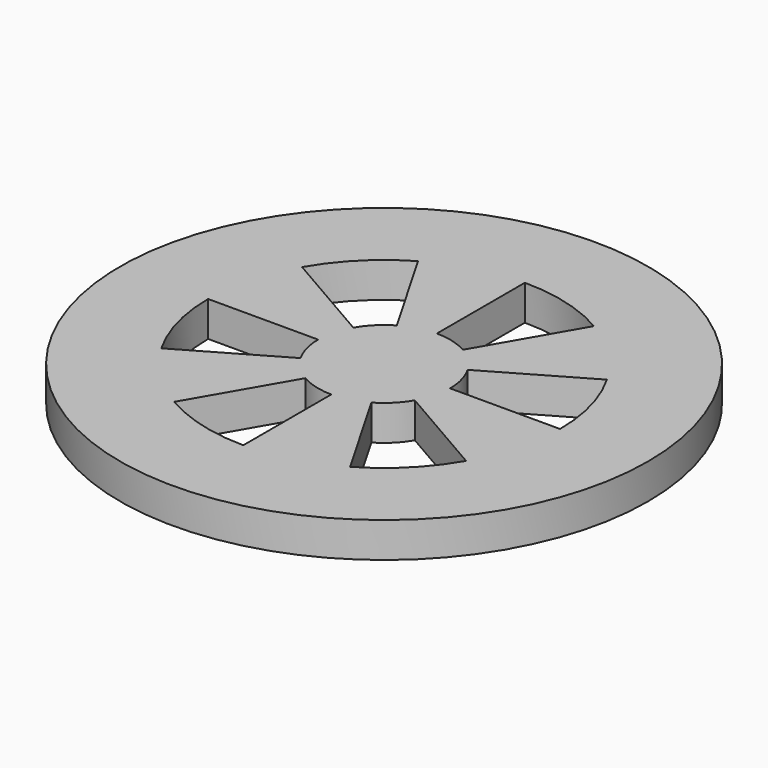
from build123d import *

# Parameters (mm, degrees)
F0_R     = 38.1
F1_DEPTH = 5.08


with BuildPart() as f1:
    # F0 (on Top) → F1 (new body)
    with BuildSketch(Plane.XY):
        Circle(F0_R)
        with BuildLine():
            ThreePointArc((21.9970452561, 12.7), (24.5345159877, 6.5740037456), (25.4, 0))
            ThreePointArc((25.4, 0), (24.5345159877, -6.5740037456), (21.9970452561, -12.7))
            ThreePointArc((21.9970452561, -12.7), (17.9605122421, -17.9605122421), (12.7, -21.9970452561))
            ThreePointArc((12.7, -21.9970452561), (6.5740037456, -24.5345159877), (0, -25.4))
            ThreePointArc((0, -25.4), (-6.5740037456, -24.5345159877), (-12.7, -21.9970452561))
            ThreePointArc((-12.7, -21.9970452561), (-17.9605122421, -17.9605122421), (-21.9970452561, -12.7))
            ThreePointArc((-21.9970452561, -12.7), (-24.5345159877, -6.5740037456), (-25.4, 0))
            ThreePointArc((-25.4, 0), (-24.5345159877, 6.5740037456), (-21.9970452561, 12.7))
            ThreePointArc((-21.9970452561, 12.7), (-17.9605122421, 17.9605122421), (-12.7, 21.9970452561))
            ThreePointArc((-12.7, 21.9970452561), (-6.5740037456, 24.5345159877), (0, 25.4))
            ThreePointArc((0, 25.4), (6.5740037456, 24.5345159877), (12.7, 21.9970452561))
            ThreePointArc((12.7, 21.9970452561), (17.9605122421, 17.9605122421), (21.9970452561, 12.7))
        make_face(mode=Mode.SUBTRACT)
        with BuildLine():
            Line((-8.248891971, -4.7625), (0, 0))
            Line((0, 0), (-9.525, 0))
            ThreePointArc((-9.525, 0), (-9.2004434954, -2.4652514046), (-8.248891971, -4.7625))
        make_face()
        with BuildLine():
            Line((-4.7625, -8.248891971), (0, 0))
            Line((0, 0), (-8.248891971, -4.7625))
            ThreePointArc((-8.248891971, -4.7625), (-6.7351920908, -6.7351920908), (-4.7625, -8.248891971))
        make_face()
        with BuildLine():
            Line((0, -9.525), (0, 0))
            Line((0, 0), (-4.7625, -8.248891971))
            ThreePointArc((-4.7625, -8.248891971), (-2.4652514046, -9.2004434954), (0, -9.525))
        make_face()
        with BuildLine():
            Line((4.7625, -8.248891971), (0, 0))
            Line((0, 0), (0, -9.525))
            ThreePointArc((0, -9.525), (2.4652514046, -9.2004434954), (4.7625, -8.248891971))
        make_face()
        with BuildLine():
            ThreePointArc((4.7625, -8.248891971), (6.7351920908, -6.7351920908), (8.248891971, -4.7625))
            Line((8.248891971, -4.7625), (0, 0))
            Line((0, 0), (4.7625, -8.248891971))
        make_face()
        with BuildLine():
            ThreePointArc((8.248891971, -4.7625), (9.2004434954, -2.4652514046), (9.525, 0))
            Line((9.525, 0), (0, 0))
            Line((0, 0), (8.248891971, -4.7625))
        make_face()
        with BuildLine():
            Line((0, 0), (9.525, 0))
            ThreePointArc((9.525, 0), (9.2004434954, 2.4652514046), (8.248891971, 4.7625))
            Line((8.248891971, 4.7625), (0, 0))
        make_face()
        with BuildLine():
            Line((0, 0), (8.248891971, 4.7625))
            ThreePointArc((8.248891971, 4.7625), (6.7351920908, 6.7351920908), (4.7625, 8.248891971))
            Line((4.7625, 8.248891971), (0, 0))
        make_face()
        with BuildLine():
            Line((0, 9.525), (0, 0))
            Line((0, 0), (4.7625, 8.248891971))
            ThreePointArc((4.7625, 8.248891971), (2.4652514046, 9.2004434954), (0, 9.525))
        make_face()
        with BuildLine():
            Line((-4.7625, 8.248891971), (0, 0))
            Line((0, 0), (0, 9.525))
            ThreePointArc((0, 9.525), (-2.4652514046, 9.2004434954), (-4.7625, 8.248891971))
        make_face()
        with BuildLine():
            Line((-8.248891971, 4.7625), (0, 0))
            Line((0, 0), (-4.7625, 8.248891971))
            ThreePointArc((-4.7625, 8.248891971), (-6.7351920908, 6.7351920908), (-8.248891971, 4.7625))
        make_face()
        with BuildLine():
            Line((-9.525, 0), (0, 0))
            Line((0, 0), (-8.248891971, 4.7625))
            ThreePointArc((-8.248891971, 4.7625), (-9.2004434954, 2.4652514046), (-9.525, 0))
        make_face()
        with BuildLine():
            ThreePointArc((-9.525, 0), (-9.2004434954, 2.4652514046), (-8.248891971, 4.7625))
            Line((-8.248891971, 4.7625), (-21.9970452561, 12.7))
            ThreePointArc((-21.9970452561, 12.7), (-24.5345159877, 6.5740037456), (-25.4, 0))
            Line((-25.4, 0), (-9.525, 0))
        make_face()
        with BuildLine():
            Line((0, 9.525), (0, 25.4))
            ThreePointArc((0, 25.4), (-6.5740037456, 24.5345159877), (-12.7, 21.9970452561))
            Line((-12.7, 21.9970452561), (-4.7625, 8.248891971))
            ThreePointArc((-4.7625, 8.248891971), (-2.4652514046, 9.2004434954), (0, 9.525))
        make_face()
        with BuildLine():
            Line((8.248891971, 4.7625), (21.9970452561, 12.7))
            ThreePointArc((21.9970452561, 12.7), (17.9605122421, 17.9605122421), (12.7, 21.9970452561))
            Line((12.7, 21.9970452561), (4.7625, 8.248891971))
            ThreePointArc((4.7625, 8.248891971), (6.7351920908, 6.7351920908), (8.248891971, 4.7625))
        make_face()
        with BuildLine():
            ThreePointArc((21.9970452561, -12.7), (24.5345159877, -6.5740037456), (25.4, 0))
            Line((25.4, 0), (9.525, 0))
            ThreePointArc((9.525, 0), (9.2004434954, -2.4652514046), (8.248891971, -4.7625))
            Line((8.248891971, -4.7625), (21.9970452561, -12.7))
        make_face()
        with BuildLine():
            ThreePointArc((0, -25.4), (6.5740037456, -24.5345159877), (12.7, -21.9970452561))
            Line((12.7, -21.9970452561), (4.7625, -8.248891971))
            ThreePointArc((4.7625, -8.248891971), (2.4652514046, -9.2004434954), (0, -9.525))
            Line((0, -9.525), (0, -25.4))
        make_face()
        with BuildLine():
            ThreePointArc((-4.7625, -8.248891971), (-6.7351920908, -6.7351920908), (-8.248891971, -4.7625))
            Line((-8.248891971, -4.7625), (-21.9970452561, -12.7))
            ThreePointArc((-21.9970452561, -12.7), (-17.9605122421, -17.9605122421), (-12.7, -21.9970452561))
            Line((-12.7, -21.9970452561), (-4.7625, -8.248891971))
        make_face()
    extrude(amount=F1_DEPTH)


solid = f1.part
